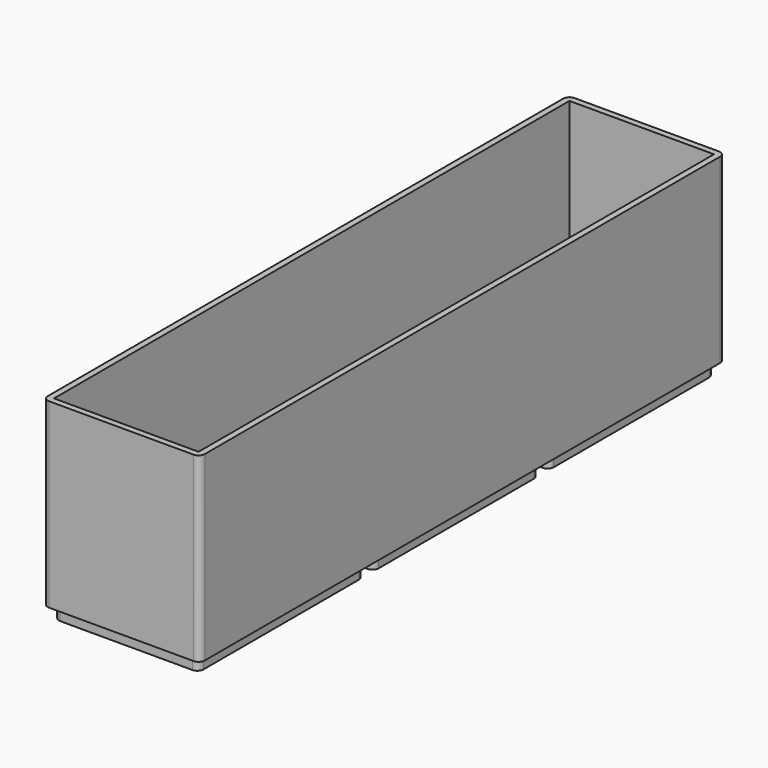
from build123d import *

# Parameters (mm, degrees)
F0_W     = 35
F0_H     = 50
F1_DEPTH = 3
F0_H_2   = 1.5
F2_DEPTH = 1.5
F3_DEPTH = 44
F4_R     = 1.5


with BuildPart() as f1:
    # F0 (on Top) → F1 (new body)
    with BuildSketch(Plane.XY):
        with Locations((19, 132.5)):
            Rectangle(F0_W, F0_H)
        with Locations((19, 79.5)):
            Rectangle(F0_W, F0_H)
        with Locations((19, 26.5)):
            Rectangle(F0_W, F0_H)
    extrude(amount=-F1_DEPTH)

    # F0 (on Top) → F2 (join)
    with BuildSketch(Plane.XY):
        Polygon((0, 159), (0, 106), (1.5, 106), (1.5, 107.5), (1.5, 157.5), (36.5, 157.5), (36.5, 107.5), (36.5, 106), (38, 106), (38, 159), align=None)
        with Locations((19, 132.5)):
            Rectangle(F0_W, F0_H)
        with Locations((19, 105.25)):
            Rectangle(F0_W, F0_H_2)
        with Locations((19, 106.75)):
            Rectangle(F0_W, F0_H_2)
        Polygon((36.5, 53), (38, 53), (38, 106), (36.5, 106), (36.5, 104.5), (36.5, 54.5), align=None)
        Polygon((0, 106), (0, 53), (1.5, 53), (1.5, 54.5), (1.5, 104.5), (1.5, 106), align=None)
        with Locations((19, 79.5)):
            Rectangle(F0_W, F0_H)
        with Locations((19, 53.75)):
            Rectangle(F0_W, F0_H_2)
        with Locations((19, 52.25)):
            Rectangle(F0_W, F0_H_2)
        with Locations((19, 26.5)):
            Rectangle(F0_W, F0_H)
        Polygon((0, 53), (0, 0), (38, 0), (38, 53), (36.5, 53), (36.5, 51.5), (36.5, 1.5), (1.5, 1.5), (1.5, 51.5), (1.5, 53), align=None)
    extrude(amount=F2_DEPTH)

    # F0 (on Top) → F3 (join)
    with BuildSketch(Plane.XY):
        Polygon((0, 159), (0, 106), (1.5, 106), (1.5, 107.5), (1.5, 157.5), (36.5, 157.5), (36.5, 107.5), (36.5, 106), (38, 106), (38, 159), align=None)
        Polygon((0, 106), (0, 53), (1.5, 53), (1.5, 54.5), (1.5, 104.5), (1.5, 106), align=None)
        Polygon((36.5, 53), (38, 53), (38, 106), (36.5, 106), (36.5, 104.5), (36.5, 54.5), align=None)
        Polygon((0, 53), (0, 0), (38, 0), (38, 53), (36.5, 53), (36.5, 51.5), (36.5, 1.5), (1.5, 1.5), (1.5, 51.5), (1.5, 53), align=None)
    extrude(amount=F3_DEPTH)

    # F4
    f4_edges = [f1.edges().sort_by_distance(p)[0] for p in [
        (0, 159, 22),
        (38, 159, 22),
        (36.5, 157.5, -1.5),
        (1.5, 157.5, -1.5),
        (36.5, 107.5, -1.5),
        (1.5, 107.5, -1.5),
        (1.5, 104.5, -1.5),
        (36.5, 104.5, -1.5),
        (36.5, 54.5, -1.5),
        (36.5, 51.5, -1.5),
        (1.5, 51.5, -1.5),
        (1.5, 54.5, -1.5),
        (36.5, 1.5, -1.5),
        (38, 0, 22),
        (1.5, 1.5, -1.5),
        (0, 0, 22),
    ]]
    fillet(f4_edges, radius=F4_R)


solid = f1.part
